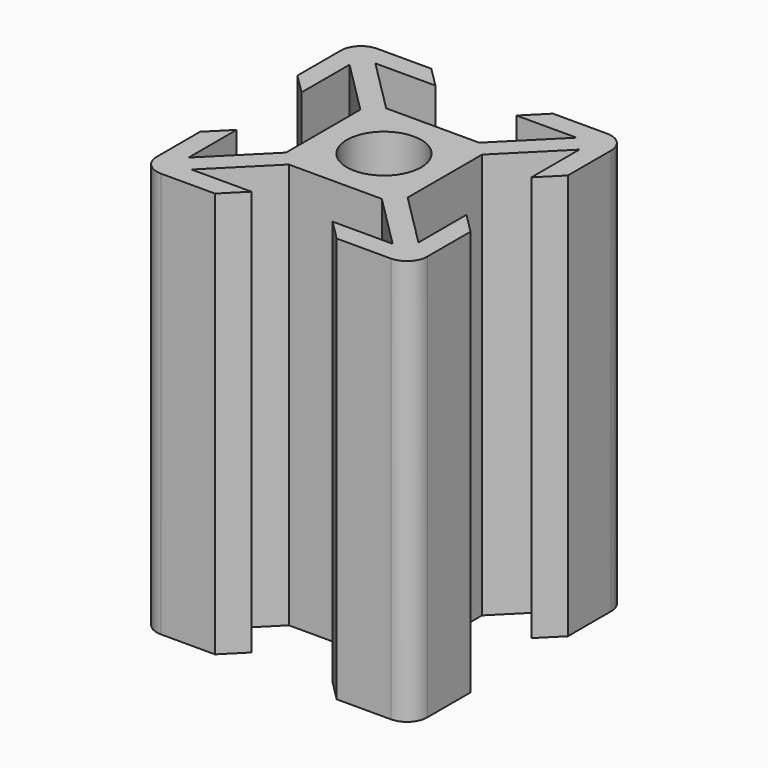
from build123d import *

# Parameters (mm, degrees)
SKETCH_R  = 2.75
PAD_DEPTH = 30


with BuildPart() as part:
    # Sketch → Pad (new body)
    with BuildSketch(Plane.XY):
        with BuildLine():
            ThreePointArc((-8.5, 10), (-9.56066, 9.56066), (-10, 8.5))
            Line((-10, 8.5), (-10, 4.5))
            Line((-10, 4.5), (-8.5, 3))
            Line((-8.5, 3), (-8.5, 7.43934))
            Line((-8.5, 7.43934), (-4.5, 3.43934))
            Line((-4.5, 3.43934), (-4.5, -3.43934))
            Line((-4.5, -3.43934), (-8.5, -7.43934))
            Line((-8.5, -7.43934), (-8.5, -3))
            Line((-8.5, -3), (-10, -4.5))
            Line((-10, -4.5), (-10, -8.5))
            ThreePointArc((-10, -8.5), (-9.56066, -9.56066), (-8.5, -10))
            Line((-8.5, -10), (-4.5, -10))
            Line((-4.5, -10), (-3, -8.5))
            Line((-3, -8.5), (-7.43934, -8.5))
            Line((-7.43934, -8.5), (-3.43934, -4.5))
            Line((-3.43934, -4.5), (3.43934, -4.5))
            Line((3.43934, -4.5), (7.43934, -8.5))
            Line((7.43934, -8.5), (3, -8.5))
            Line((3, -8.5), (4.5, -10))
            Line((4.5, -10), (8.5, -10))
            ThreePointArc((8.5, -10), (9.56066, -9.56066), (10, -8.5))
            Line((10, -8.5), (10, -4.5))
            Line((10, -4.5), (8.5, -3))
            Line((8.5, -3), (8.5, -7.43934))
            Line((8.5, -7.43934), (4.5, -3.43934))
            Line((4.5, -3.43934), (4.5, 3.43934))
            Line((4.5, 3.43934), (8.5, 7.43934))
            Line((8.5, 7.43934), (8.5, 3))
            Line((8.5, 3), (10, 4.5))
            Line((10, 4.5), (10, 8.5))
            ThreePointArc((10, 8.5), (9.56066, 9.56066), (8.5, 10))
            Line((8.5, 10), (4.5, 10))
            Line((4.5, 10), (3, 8.5))
            Line((3, 8.5), (7.43934, 8.5))
            Line((7.43934, 8.5), (3.43934, 4.5))
            Line((-3.43934, 4.5), (3.43934, 4.5))
            Line((-7.43934, 8.5), (-3.43934, 4.5))
            Line((-3, 8.5), (-7.43934, 8.5))
            Line((-4.5, 10), (-3, 8.5))
            Line((-8.5, 10), (-4.5, 10))
        make_face()
        Circle(SKETCH_R, mode=Mode.SUBTRACT)
    extrude(amount=PAD_DEPTH)


solid = part.part
